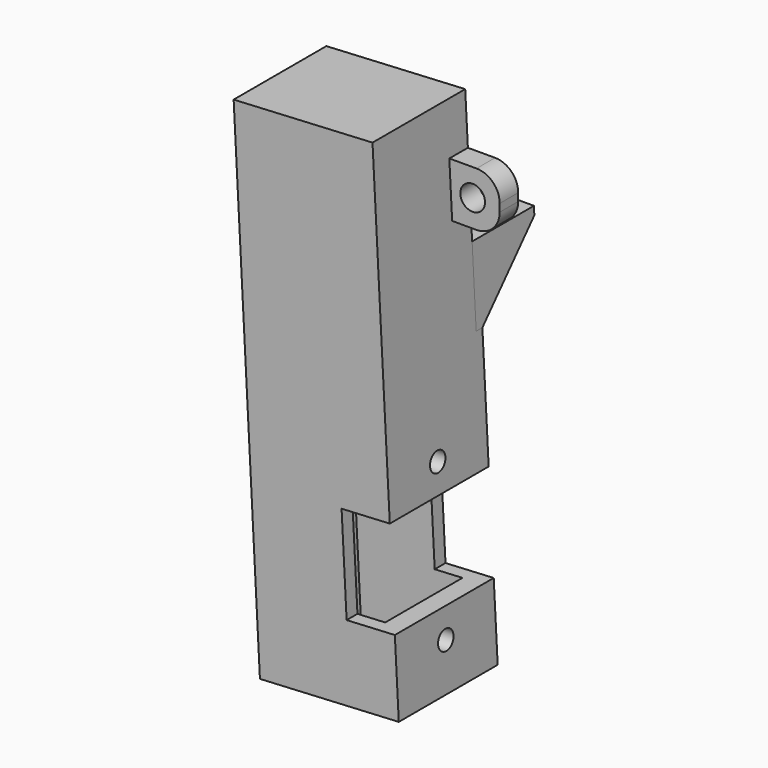
from build123d import *

# Parameters (mm, degrees)
BOX190_W                   = 38
BOX190_H                   = 20
BOX190_DEPTH               = 12.5
BOX190_PLACEMENT_ANGLE     = 3
BOX180_W                   = 20
BOX180_H                   = 10
BOX180_DEPTH               = 18
CYLINDER195_R              = 1.25
CYLINDER195_DEPTH          = 10
CYLINDER194_R              = 1.25
CYLINDER194_DEPTH          = 10
BOX106_W                   = 12
BOX106_H                   = 20
BOX106_DEPTH               = 12.5
BOX105_W                   = 12.5
BOX105_H                   = 12.5
BOX105_DEPTH               = 60
BOX104_W                   = 18
BOX104_H                   = 16
BOX104_DEPTH               = 65
CHAMFER014_SIZE            = 1.1
CHAMFER014_PLACEMENT_ANGLE = 3
CYLINDER246_R              = 1.6
CYLINDER246_DEPTH          = 10
BOX189_W                   = 7.5
BOX189_H                   = 3
BOX189_DEPTH               = 7
FILLET071_R                = 3
CYLINDER244_R              = 1.6
CYLINDER244_DEPTH          = 10
CYLINDER245_R              = 3.1
CYLINDER245_DEPTH          = 10
CYLINDER247_R              = 3.1
CYLINDER247_DEPTH          = 10
CYLINDER248_R              = 1.6
CYLINDER248_DEPTH          = 10
BOX188_W                   = 50
BOX188_H                   = 10
BOX188_DEPTH               = 11
BOX187_W                   = 18
BOX187_H                   = 10
BOX187_DEPTH               = 11
BOX187_PLACEMENT_ANGLE     = 3
CHAMFER016_SIZE            = 9


with BuildPart() as cube277:
    # Box190 → Box190 (new body)
    with BuildSketch(Plane.XY):
        with Locations((19, 10)):
            Rectangle(BOX190_W, BOX190_H)
    extrude(amount=BOX190_DEPTH)


with BuildPart() as cube277_1:
    # Box190 placement: moved
    add(cube277.part.moved(Location((223, -16, 15.7))).rotate(Axis((223, -16, 15.7), (0, -1, 0)), BOX190_PLACEMENT_ANGLE))


with BuildPart() as cube267:
    # Box180 → Box180 (new body)
    with BuildSketch(Plane(origin=(231, 0, -7), x_dir=(1, 0, 0), z_dir=(0, 0, 1))):
        with Locations((10, 5)):
            Rectangle(BOX180_W, BOX180_H)
    extrude(amount=BOX180_DEPTH)


with BuildPart() as cylinder482:
    # Cylinder195 → Cylinder195 (new body)
    with BuildSketch(Plane(origin=(323, 0, -39), x_dir=(0, 0, -1), z_dir=(1, 0, 0))):
        Circle(CYLINDER195_R)
    extrude(amount=CYLINDER195_DEPTH)


with BuildPart() as fusion167:
    # Cylinder194 → Cylinder194 (new body)
    with BuildSketch(Plane(origin=(323, 0, -59), x_dir=(0, 0, -1), z_dir=(1, 0, 0))):
        Circle(CYLINDER194_R)
    extrude(amount=CYLINDER194_DEPTH)

    # Fusion167: union Cylinder482
    add(cylinder482.part)


with BuildPart() as fusion167_1:
    # Fusion167 placement: moved
    add(fusion167.part.moved(Location((40, 2, 0))))


with BuildPart() as cube174:
    # Box106 → Box106 (new body)
    with BuildSketch(Plane(origin=(363.75, -10, -55.25), x_dir=(1, 0, 0), z_dir=(0, 0, 1))):
        with Locations((6, 10)):
            Rectangle(BOX106_W, BOX106_H)
    extrude(amount=BOX106_DEPTH)


with BuildPart() as cube173:
    # Box105 → Box105 (new body)
    with BuildSketch(Plane(origin=(353.75, -4.25, -65), x_dir=(1, 0, 0), z_dir=(0, 0, 1))):
        with Locations((6.25, 6.25)):
            Rectangle(BOX105_W, BOX105_H)
    extrude(amount=BOX105_DEPTH)


with BuildPart() as cut190:
    # Box104 → Box104 (new body)
    with BuildSketch(Plane(origin=(352, -6, -65), x_dir=(1, 0, 0), z_dir=(0, 0, 1))):
        with Locations((9, 8)):
            Rectangle(BOX104_W, BOX104_H)
    extrude(amount=BOX104_DEPTH)

    # Cut125: cut Cube173
    add(cube173.part, mode=Mode.SUBTRACT)

    # Cut124: cut Cube174
    add(cube174.part, mode=Mode.SUBTRACT)

    # Cut187: cut Fusion167
    add(fusion167_1.part, mode=Mode.SUBTRACT)


with BuildPart() as cut190_1:
    # Cut187 placement: moved
    add(cut190.part.moved(Location((-120, -9, 10))))

    # Chamfer014
    chamfer014_edges = [cut190_1.edges().sort_by_distance(p)[0] for p in [
        (246.25, -7, -45.25),
        (246.25, -7, -32.75),
    ]]
    chamfer(chamfer014_edges, length=CHAMFER014_SIZE)


with BuildPart() as cut190_2:
    # Chamfer014 placement: moved
    add(cut190_1.part.moved(Location((0, 0, -13))).rotate(Axis((0, 0, -13), (0, -1, 0)), CHAMFER014_PLACEMENT_ANGLE))

    # Cut190: cut Cube267
    add(cube267.part, mode=Mode.SUBTRACT)


with BuildPart() as cut190_3:
    # Cut190 placement: moved
    add(cut190_2.part.moved(Location((0, 0, 7))))


with BuildPart() as cylinder530:
    # Cylinder246 → Cylinder246 (new body)
    with BuildSketch(Plane(origin=(253, 7, 6.5), x_dir=(1, 0, 0), z_dir=(0, -1, 0))):
        Circle(CYLINDER246_R)
    extrude(amount=CYLINDER246_DEPTH)


with BuildPart() as fillet071:
    # Box189 → Box189 (new body)
    with BuildSketch(Plane(origin=(249, -3, 3), x_dir=(1, 0, 0), z_dir=(0, 0, 1))):
        with Locations((3.75, 1.5)):
            Rectangle(BOX189_W, BOX189_H)
    extrude(amount=BOX189_DEPTH)

    # Cut196: cut Cylinder530
    add(cylinder530.part, mode=Mode.SUBTRACT)

    # Fillet071
    fillet071_edges = [fillet071.edges().sort_by_distance(p)[0] for p in [
        (256.5, -1.5, 10),
        (256.5, -1.5, 3),
    ]]
    fillet(fillet071_edges, radius=FILLET071_R)


with BuildPart() as fillet071_1:
    # Fillet071 placement: moved
    add(fillet071.part.moved(Location((-0.5, 0, 0.5))))


with BuildPart() as cylinder528:
    # Cylinder244 → Cylinder244 (new body)
    with BuildSketch(Plane(origin=(246, 6, -9), x_dir=(1, 0, 0), z_dir=(0, 0, 1))):
        Circle(CYLINDER244_R)
    extrude(amount=CYLINDER244_DEPTH)


with BuildPart() as cylinder529:
    # Cylinder245 → Cylinder245 (new body)
    with BuildSketch(Plane(origin=(246, 6, -12), x_dir=(1, 0, 0), z_dir=(0, 0, 1))):
        Circle(CYLINDER245_R)
    extrude(amount=CYLINDER245_DEPTH)


with BuildPart() as cylinder531:
    # Cylinder247 → Cylinder247 (new body)
    with BuildSketch(Plane(origin=(236, 6, -12), x_dir=(1, 0, 0), z_dir=(0, 0, 1))):
        Circle(CYLINDER247_R)
    extrude(amount=CYLINDER247_DEPTH)


with BuildPart() as fusion209:
    # Cylinder248 → Cylinder248 (new body)
    with BuildSketch(Plane(origin=(236, 6, -9), x_dir=(1, 0, 0), z_dir=(0, 0, 1))):
        Circle(CYLINDER248_R)
    extrude(amount=CYLINDER248_DEPTH)

    # Fusion209: union Cylinder528, Cylinder529, Cylinder531
    add(cylinder528.part)
    add(cylinder529.part)
    add(cylinder531.part)


with BuildPart() as fusion209_1:
    # Fusion209 placement: moved
    add(fusion209.part.moved(Location((0, 0, -1))))


with BuildPart() as cube275:
    # Box188 → Box188 (new body)
    with BuildSketch(Plane(origin=(231, 0, 0), x_dir=(1, 0, 0), z_dir=(0, 0, 1))):
        with Locations((25, 5)):
            Rectangle(BOX188_W, BOX188_H)
    extrude(amount=BOX188_DEPTH)


with BuildPart() as supports_left_frame:
    # Box187 → Box187 (new body)
    with BuildSketch(Plane.XY):
        with Locations((9, 5)):
            Rectangle(BOX187_W, BOX187_H)
    extrude(amount=BOX187_DEPTH)


with BuildPart() as supports_left_frame_1:
    # Box187 placement: moved
    add(supports_left_frame.part.moved(Location((232.21, 0, -11))).rotate(Axis((232.21, 0, -11), (0, -1, 0)), BOX187_PLACEMENT_ANGLE))

    # Cut194: cut Cube275
    add(cube275.part, mode=Mode.SUBTRACT)

    # Chamfer016
    chamfer016_edges = [supports_left_frame_1.edges().sort_by_distance(p)[0] for p in [
        (241.197666, 10, -10.528976),
    ]]
    chamfer(chamfer016_edges, length=CHAMFER016_SIZE)

    # Cut195: cut Fusion209
    add(fusion209_1.part, mode=Mode.SUBTRACT)


with BuildPart() as supports_left_frame_2:
    # Cut195 placement: moved
    add(supports_left_frame_1.part.moved(Location((0.371, 0, 0))))

    # Fusion213: union Cut190, Fillet071
    add(cut190_3.part)
    add(fillet071_1.part)

    # Cut197: cut Cube277
    add(cube277_1.part, mode=Mode.SUBTRACT)


with BuildPart() as supports_left_frame_3:
    # Cut197 placement: moved
    add(supports_left_frame_2.part.moved(Location((0, -10, 0))))


solid = supports_left_frame_3.part
